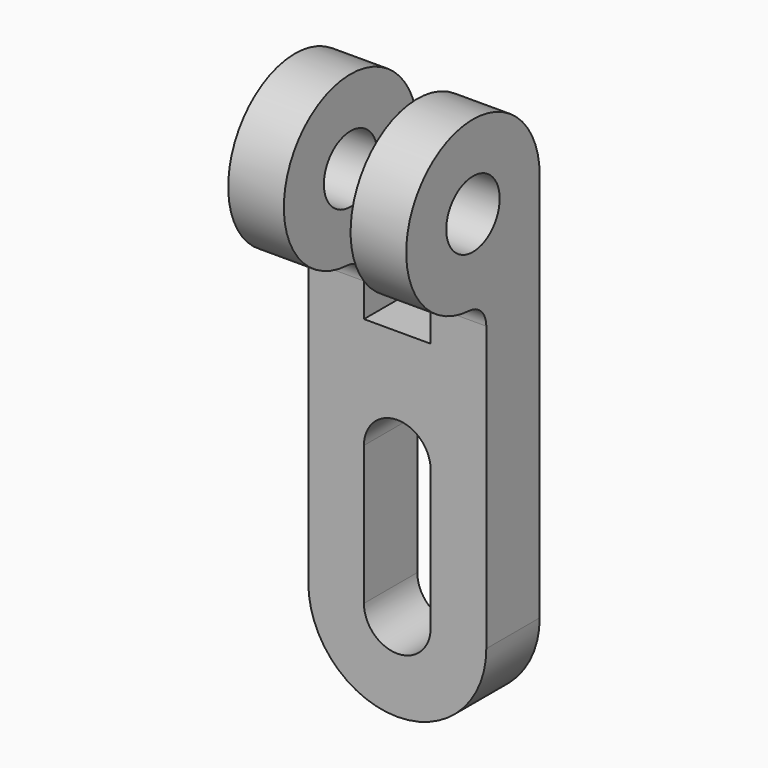
from build123d import *

# Parameters (mm, degrees)
F0_R          = 6
F1_DEPTH      = 16
F1_DEPTH_BACK = 16
F2_W          = 12
F2_H          = 43.665691
F3_DEPTH      = 30.001


with BuildPart() as f1:
    # F0 (on Right) → F1 (new body, two sides)
    with BuildSketch(Plane.YZ) as f1_sk:
        with BuildLine():
            Line((15, -86), (15, 0))
            ThreePointArc((15, 0), (-10.323708, 10.882144), (-0.789474, -14.97921))
            ThreePointArc((-0.789474, -14.97921), (1.901905, -16.220677), (3, -18.973666))
            Line((3, -18.973666), (3, -86))
            Line((3, -86), (15, -86))
        make_face()
        Circle(F0_R, mode=Mode.SUBTRACT)
    extrude(amount=F1_DEPTH)
    extrude(f1_sk.sketch, amount=-F1_DEPTH_BACK)

    # F2 (on face) → F3 (cut, through all)
    with BuildSketch(Plane(origin=(0, 15, 0), x_dir=(-1, 0, 0), z_dir=(0, 1, 0))):
        with Locations((0, -3.167155)):
            Rectangle(F2_W, F2_H)
        with BuildLine():
            Line((6, -70), (6, -45))
            ThreePointArc((6, -45), (0, -39), (-6, -45))
            Line((-6, -45), (-6, -70))
            ThreePointArc((-6, -70), (0, -76), (6, -70))
        make_face()
        with BuildLine():
            ThreePointArc((0, -86), (-11.313708, -81.313709), (-16, -70))
            Line((-16, -70), (-16, -86))
            Line((-16, -86), (0, -86))
        make_face()
        with BuildLine():
            Line((16, -86), (16, -70))
            ThreePointArc((16, -70), (11.313709, -81.313708), (0, -86))
            Line((0, -86), (16, -86))
        make_face()
    extrude(amount=-F3_DEPTH, mode=Mode.SUBTRACT)


solid = f1.part
